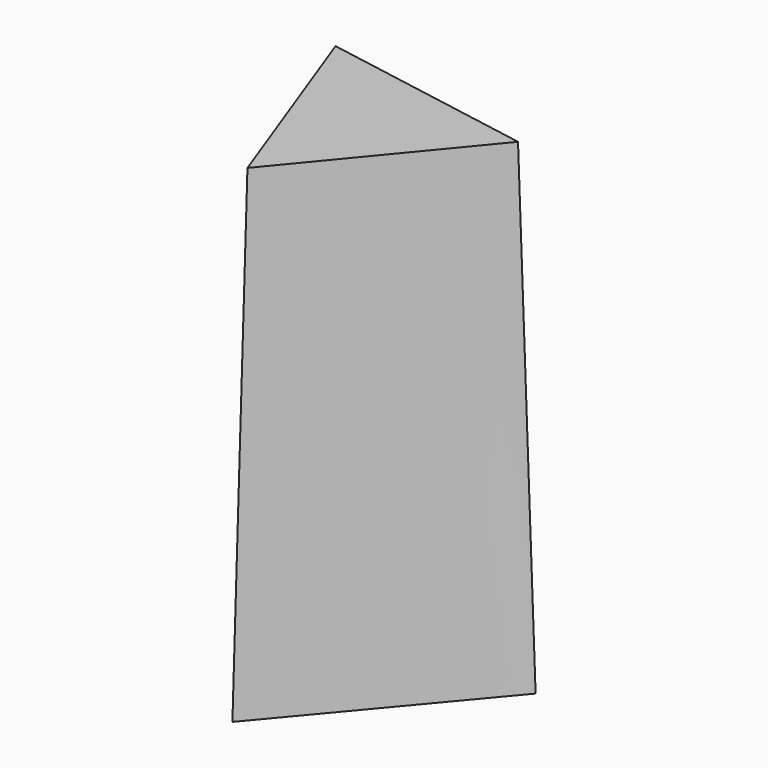
from build123d import *


with BuildPart() as f4:
    # F2 (on offset) → F4 section 0
    with BuildSketch(Plane.XY.offset(50.8)):
        Polygon((185.914633, 68.038366), (-151.88027, 126.987612), (-34.034363, -195.025978), align=None)
    # F3 (on offset) → F4 section 1
    with BuildSketch(Plane.XY.offset(736.6)):
        Polygon((166.219607, 61.463184), (-135.255369, 114.510549), (-28.807305, -174.862288), align=None)
    loft()


solid = f4.part
